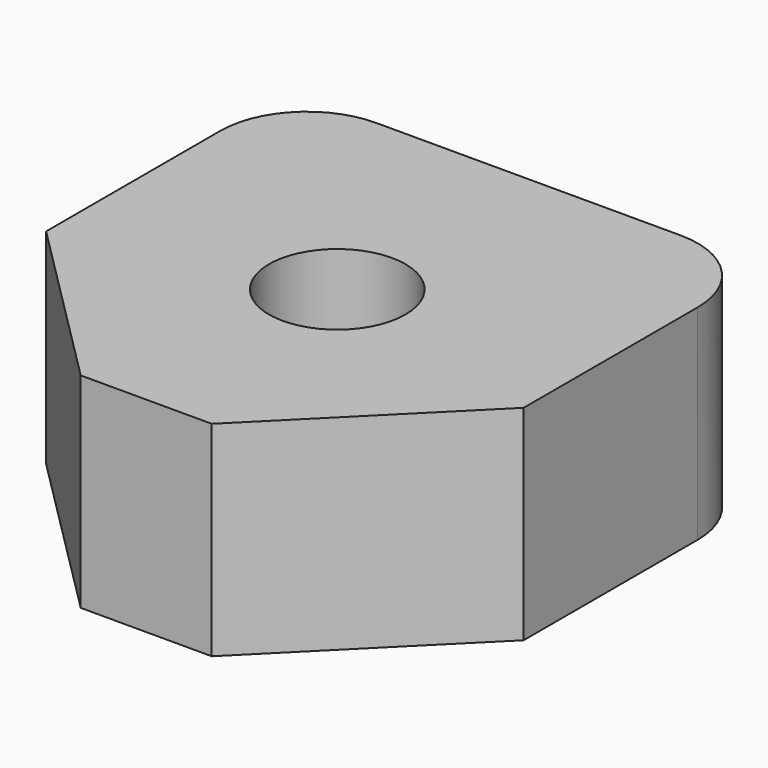
from build123d import *

# Parameters (mm, degrees)
F0_W     = 70
F0_H     = 30
F1_DEPTH = 70
F2_R     = 10
F3_DEPTH = 30.001
F4_R     = 12.7
F5_SIZE  = 25.4


with BuildPart() as f1:
    # F0 (on Front) → F1 (new body)
    with BuildSketch(Plane.XZ):
        Rectangle(F0_W, F0_H)
    extrude(amount=F1_DEPTH)

    # F2 (on face) → F3 (cut, through all)
    with BuildSketch(Plane.XY.offset(15)):
        with Locations((0, -35)):
            Circle(F2_R)
    extrude(amount=-F3_DEPTH, mode=Mode.SUBTRACT)

    # F4
    f4_edges = [f1.edges().sort_by_distance(p)[0] for p in [
        (-35, 0, 0),
        (35, 0, 0),
    ]]
    fillet(f4_edges, radius=F4_R)

    # F5
    f5_edges = [f1.edges().sort_by_distance(p)[0] for p in [
        (-35, -70, 0),
        (35, -70, 0),
    ]]
    chamfer(f5_edges, length=F5_SIZE)


solid = f1.part
